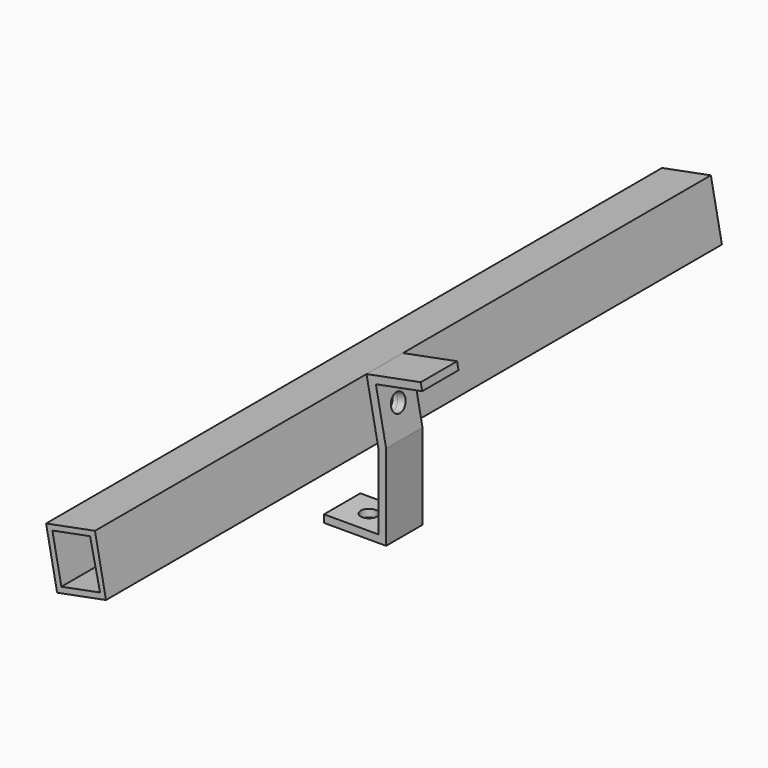
from build123d import *

# Parameters (mm, degrees)
F1_DEPTH = 30
F2_R     = 5.9068086224
F3_DEPTH = 37.3459064877
F5_DEPTH = 254
F6_R     = 5.3482830895
F7_DEPTH = 25.4
F8_DEPTH = 49.7385416959


with BuildPart() as f1:
    # F0 (on Front) → F1 (new body)
    with BuildSketch(Plane.XZ):
        Polygon((0, 5), (0, 0), (41, 0), (41, 56.516070229), (34.2285000014, 91.6807044894), (64.7796728897, 97.563810386), (63.8342146871, 102.4736076107), (28.0746837728, 95.5875509623), (36, 54.4311090238), (36, 5), align=None)
    extrude(amount=F1_DEPTH)

    # F2 (on face) → F3 (cut, through all)
    with BuildSketch(Plane(origin=(44.8195825231, 0, 8.6307112067), x_dir=(0, -1, 0), z_dir=(-0.9819594449, 0, -0.1890916405))):
        with Locations((15.3243150562, 67.6144137979)):
            Circle(F2_R)
    extrude(amount=-F3_DEPTH, mode=Mode.SUBTRACT)

    # F4 (on face) → F5 (join, symmetric)
    with BuildSketch(Plane(origin=(0, 0, 0), x_dir=(-1, 0, 0), z_dir=(0, 1, 0))):
        Polygon((4.1697587408, 89.3783795312), (-28.0746837728, 95.5875509623), (-35.362594468, 57.7411780502), (-3.1181519544, 51.5320066191), align=None)
        Polygon((-31.4480777671, 60.8430350679), (-24.8551371776, 91.4274895161), (0, 86.6412443325), (-5.9146662272, 55.9261775534), align=None, mode=Mode.SUBTRACT)
    extrude(amount=F5_DEPTH, both=True)

    # F6 (on face) → F7 (cut)
    with BuildSketch(Plane(origin=(0, 0, 0), x_dir=(1, 0, 0), z_dir=(0, 0, -1))):
        with Locations((17.5516102463, 14.9040622637)):
            Circle(F6_R)
    extrude(amount=-F7_DEPTH, mode=Mode.SUBTRACT)

    # F8 (cut, through all): a face of the model
    f8_faces = [f1.faces().sort_by_distance(p)[0] for p in [
        (32.0342620964, -15.3243150562, 75.0253234491),
    ]]
    extrude(f8_faces, amount=-F8_DEPTH, mode=Mode.SUBTRACT)


solid = f1.part
